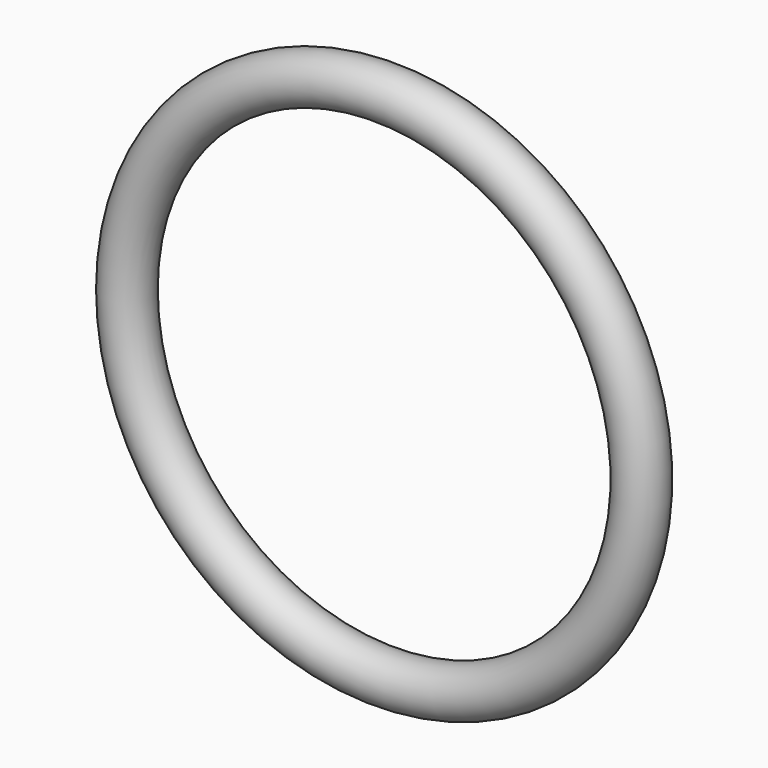
from build123d import *

# Parameters (mm, degrees)
F0_R = 1.5


with BuildPart() as f1:
    # F0 (on Top) → F1 (revolve)
    with BuildSketch(Plane.XY):
        Circle(F0_R)
    revolve(axis=Axis((16, -0.286738, 0), (0, 1, 0)))


solid = f1.part
